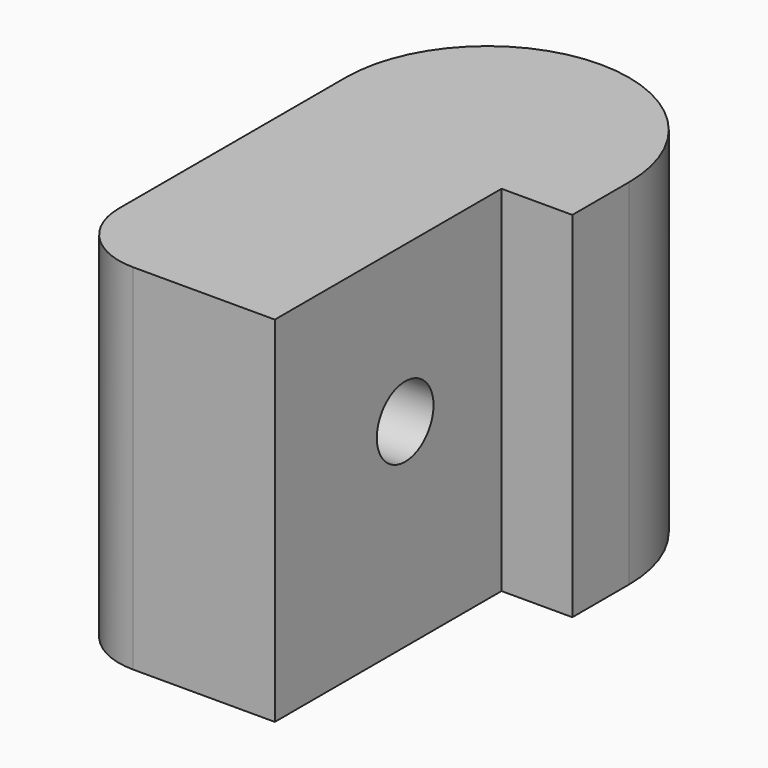
from build123d import *

# Parameters (mm, degrees)
F1_DEPTH = 25
F3_D     = 5
F4_R     = 5


with BuildPart() as f1:
    # F0 (on Top) → F1 (new body)
    with BuildSketch(Plane.XY):
        with BuildLine():
            Line((10, -5), (10, 0))
            ThreePointArc((10, 0), (0, 10), (-10, 0))
            Line((-10, 0), (-10, -25))
            Line((-10, -25), (5, -25))
            Line((5, -25), (5, -5))
            Line((5, -5), (10, -5))
        make_face()
    extrude(amount=F1_DEPTH)

    # F3 (through all)
    with Locations(Plane(origin=(-10, 0, 0), x_dir=(0, -1, 0), z_dir=(-1, 0, 0))):
        with Locations((13.501376, 13.991057)):
            Hole(F3_D / 2)

    # F4
    f4_edges = [f1.edges().sort_by_distance(p)[0] for p in [
        (-10, -25, 12.5),
    ]]
    fillet(f4_edges, radius=F4_R)


solid = f1.part
